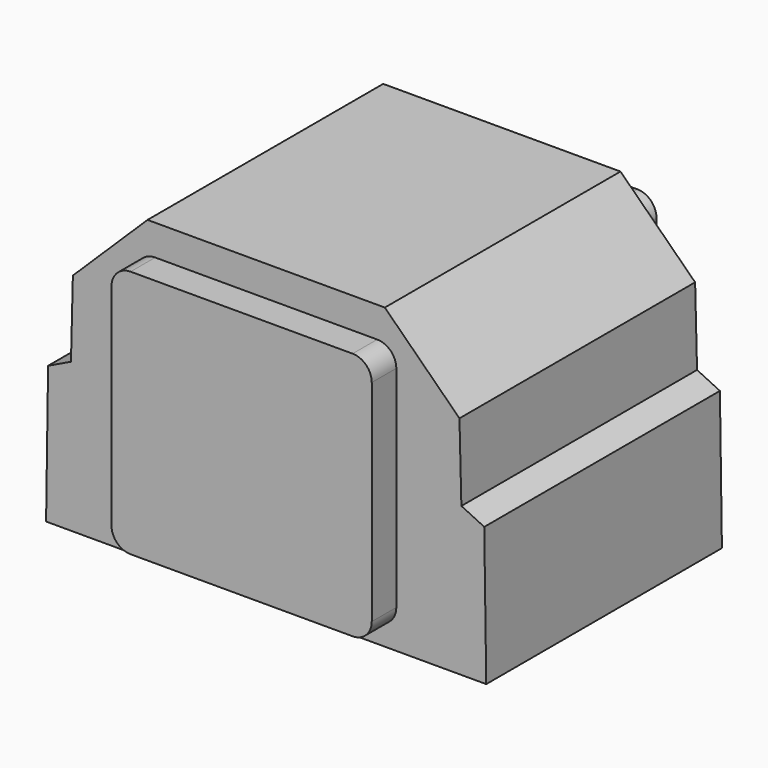
from build123d import *

# Parameters (mm, degrees)
PAD_DEPTH    = 38.481
PAD003_DEPTH = 46.5


with BuildPart() as body:
    # Sketch → Pad (new body, symmetric)
    with BuildSketch(Plane.XZ):
        Polygon((-57.5, 0), (-56.973913, 35.996156), (-51, 38.870502), (-50.5, 58.864251), (-31, 78), (31, 78), (50.5, 58.864251), (51, 38.870502), (56.973913, 35.996156), (57.5, 0), align=None)
    extrude(amount=PAD_DEPTH, both=True)


with BuildPart() as body001:
    # Sketch003 → Pad003 (new body, symmetric)
    with BuildSketch(Plane.XZ):
        with BuildLine():
            Line((29, 5), (-29, 5))
            ThreePointArc((-34, 10), (-32.535534, 6.464466), (-29, 5))
            Line((-34, 10), (-34, 65))
            ThreePointArc((-29, 70), (-32.535534, 68.535534), (-34, 65))
            Line((-29, 70), (29, 70))
            ThreePointArc((34, 65), (32.535534, 68.535534), (29, 70))
            Line((34, 65), (34, 10))
            ThreePointArc((29, 5), (32.535534, 6.464466), (34, 10))
        make_face()
    extrude(amount=PAD003_DEPTH, both=True)


solid = Compound([body.part, body001.part])
